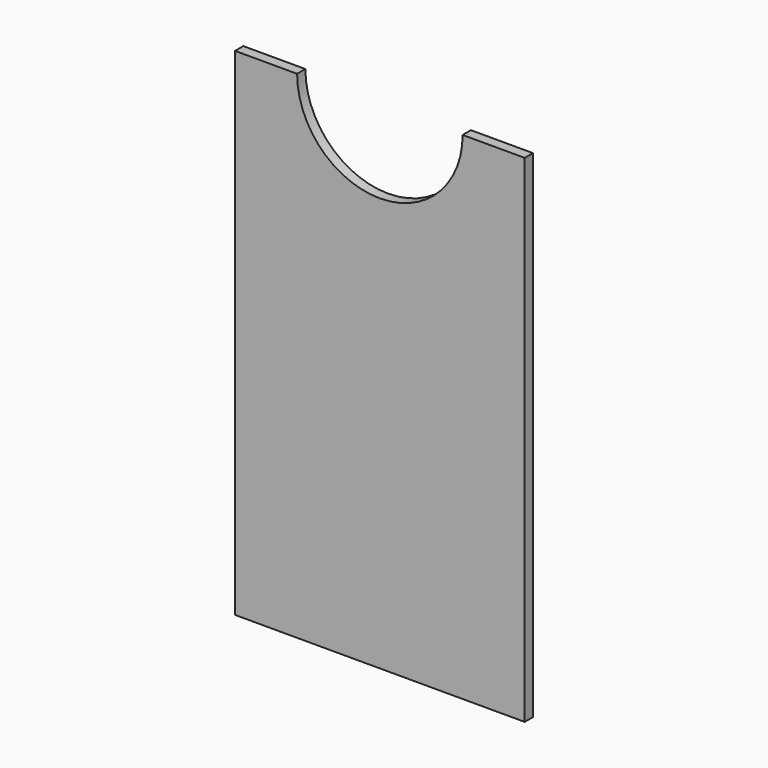
from build123d import *

# Parameters (mm, degrees)
F0_W     = 177.8
F0_H     = 304.8
F1_DEPTH = 6.35
F3_DEPTH = 25.4


with BuildPart() as f1:
    # F0 (on Front) → F1 (new body)
    with BuildSketch(Plane.XZ):
        Rectangle(F0_W, F0_H)
    extrude(amount=F1_DEPTH)

    # F2 (on face) → F3 (cut)
    with BuildSketch(Plane.XZ.offset(6.35)):
        with BuildLine():
            Line((50.8, 152.4), (-50.8, 152.4))
            ThreePointArc((-50.8, 152.4), (0, 101.6), (50.8, 152.4))
        make_face()
    extrude(amount=-F3_DEPTH, mode=Mode.SUBTRACT)


solid = f1.part
